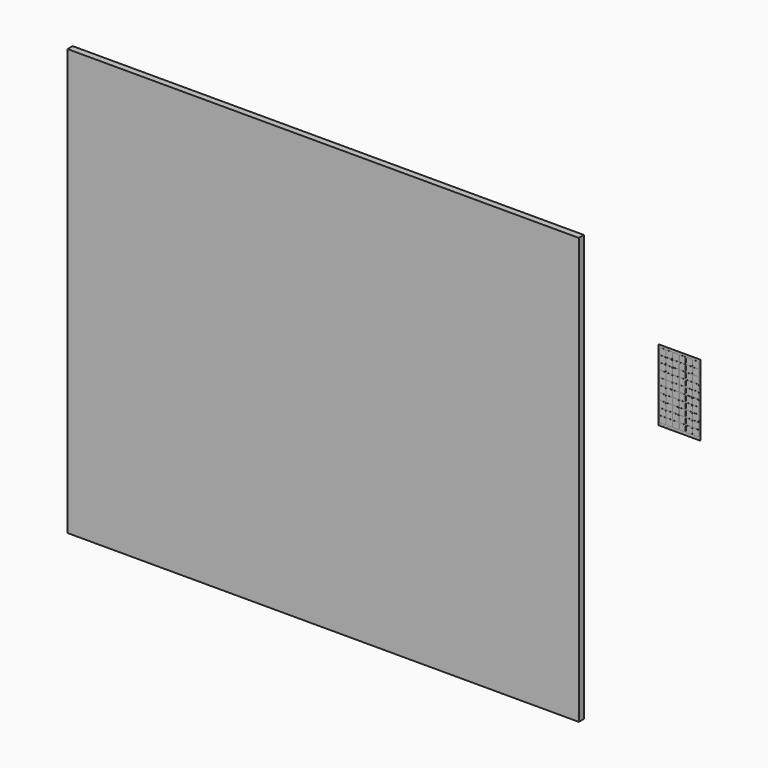
from build123d import *

# Parameters (mm, degrees)
F0_W     = 12000
F0_H     = 10000
F3_DEPTH = 150
F4_DEPTH = 2
F1_W     = 990
F1_H     = 1675
F5_DEPTH = 0.1


with BuildPart() as f3:
    # F0 (on Front) → F3 (new body)
    with BuildSketch(Plane.XZ):
        Rectangle(F0_W, F0_H)
    extrude(amount=F3_DEPTH)


with BuildPart() as f4:
    # F2 (on face) → F4 (new body)
    with BuildSketch(Plane.XZ):
        with BuildLine():
            Line((8669.1327285767, 3255.2257575989), (8579.1327285767, 3255.2257575989))
            ThreePointArc((8579.1327285767, 3255.2257575989), (8557.9195251411, 3246.4389610345), (8549.1327285767, 3225.2257575989))
            Line((8549.1327285767, 3225.2257575989), (8549.1327285767, 3135.2257575989))
            ThreePointArc((8549.1327285767, 3135.2257575989), (8557.9195251411, 3114.0125541633), (8579.1327285767, 3105.2257575989))
            Line((8579.1327285767, 3105.2257575989), (8669.1327285767, 3105.2257575989))
            ThreePointArc((8669.1327285767, 3105.2257575989), (8690.3459320123, 3114.0125541633), (8699.1327285767, 3135.2257575989))
            Line((8699.1327285767, 3135.2257575989), (8699.1327285767, 3225.2257575989))
            ThreePointArc((8699.1327285767, 3225.2257575989), (8690.3459320123, 3246.4389610345), (8669.1327285767, 3255.2257575989))
        make_face()
    extrude(amount=F4_DEPTH)



with BuildPart() as f4b:
    # F2 (on face) → F4, piece 2 (new body)
    with BuildSketch(Plane.XZ):
        with BuildLine():
            Line((8359.1327285767, 3099.2257575989), (8269.1327285767, 3099.2257575989))
            ThreePointArc((8269.1327285767, 3099.2257575989), (8247.9195251411, 3090.4389610345), (8239.1327285767, 3069.2257575989))
            Line((8239.1327285767, 3069.2257575989), (8239.1327285767, 2979.2257575989))
            ThreePointArc((8239.1327285767, 2979.2257575989), (8247.9195251411, 2958.0125541633), (8269.1327285767, 2949.2257575989))
            Line((8269.1327285767, 2949.2257575989), (8359.1327285767, 2949.2257575989))
            ThreePointArc((8359.1327285767, 2949.2257575989), (8380.3459320123, 2958.0125541633), (8389.1327285767, 2979.2257575989))
            Line((8389.1327285767, 2979.2257575989), (8389.1327285767, 3069.2257575989))
            ThreePointArc((8389.1327285767, 3069.2257575989), (8380.3459320123, 3090.4389610345), (8359.1327285767, 3099.2257575989))
        make_face()
    extrude(amount=F4_DEPTH)


with BuildPart() as f4c:
    # F2 (on face) → F4, piece 3 (new body)
    with BuildSketch(Plane.XZ):
        with BuildLine():
            Line((8514.1327285767, 3099.2257575989), (8424.1327285767, 3099.2257575989))
            ThreePointArc((8424.1327285767, 3099.2257575989), (8402.9195251411, 3090.4389610345), (8394.1327285767, 3069.2257575989))
            Line((8394.1327285767, 3069.2257575989), (8394.1327285767, 2979.2257575989))
            ThreePointArc((8394.1327285767, 2979.2257575989), (8402.9195251411, 2958.0125541633), (8424.1327285767, 2949.2257575989))
            Line((8424.1327285767, 2949.2257575989), (8514.1327285767, 2949.2257575989))
            ThreePointArc((8514.1327285767, 2949.2257575989), (8535.3459320123, 2958.0125541633), (8544.1327285767, 2979.2257575989))
            Line((8544.1327285767, 2979.2257575989), (8544.1327285767, 3069.2257575989))
            ThreePointArc((8544.1327285767, 3069.2257575989), (8535.3459320123, 3090.4389610345), (8514.1327285767, 3099.2257575989))
        make_face()
    extrude(amount=F4_DEPTH)


with BuildPart() as f4d:
    # F2 (on face) → F4, piece 4 (new body)
    with BuildSketch(Plane.XZ):
        with BuildLine():
            Line((8669.1327285767, 2943.2257575989), (8579.1327285767, 2943.2257575989))
            ThreePointArc((8579.1327285767, 2943.2257575989), (8557.9195251411, 2934.4389610345), (8549.1327285767, 2913.2257575989))
            Line((8549.1327285767, 2913.2257575989), (8549.1327285767, 2823.2257575989))
            ThreePointArc((8549.1327285767, 2823.2257575989), (8557.9195251411, 2802.0125541633), (8579.1327285767, 2793.2257575989))
            Line((8579.1327285767, 2793.2257575989), (8669.1327285767, 2793.2257575989))
            ThreePointArc((8669.1327285767, 2793.2257575989), (8690.3459320123, 2802.0125541633), (8699.1327285767, 2823.2257575989))
            Line((8699.1327285767, 2823.2257575989), (8699.1327285767, 2913.2257575989))
            ThreePointArc((8699.1327285767, 2913.2257575989), (8690.3459320123, 2934.4389610345), (8669.1327285767, 2943.2257575989))
        make_face()
    extrude(amount=F4_DEPTH)


with BuildPart() as f4e:
    # F2 (on face) → F4, piece 5 (new body)
    with BuildSketch(Plane.XZ):
        with BuildLine():
            Line((7894.1327285767, 2475.2257575989), (7804.1327285767, 2475.2257575989))
            ThreePointArc((7804.1327285767, 2475.2257575989), (7782.9195251411, 2466.4389610345), (7774.1327285767, 2445.2257575989))
            Line((7774.1327285767, 2445.2257575989), (7774.1327285767, 2355.2257575989))
            ThreePointArc((7774.1327285767, 2355.2257575989), (7782.9195251411, 2334.0125541633), (7804.1327285767, 2325.2257575989))
            Line((7804.1327285767, 2325.2257575989), (7894.1327285767, 2325.2257575989))
            ThreePointArc((7894.1327285767, 2325.2257575989), (7915.3459320123, 2334.0125541633), (7924.1327285767, 2355.2257575989))
            Line((7924.1327285767, 2355.2257575989), (7924.1327285767, 2445.2257575989))
            ThreePointArc((7924.1327285767, 2445.2257575989), (7915.3459320123, 2466.4389610345), (7894.1327285767, 2475.2257575989))
        make_face()
    extrude(amount=F4_DEPTH)


with BuildPart() as f4f:
    # F2 (on face) → F4, piece 6 (new body)
    with BuildSketch(Plane.XZ):
        with BuildLine():
            Line((7894.1327285767, 2319.2257575989), (7804.1327285767, 2319.2257575989))
            ThreePointArc((7804.1327285767, 2319.2257575989), (7782.9195251411, 2310.4389610345), (7774.1327285767, 2289.2257575989))
            Line((7774.1327285767, 2289.2257575989), (7774.1327285767, 2199.2257575989))
            ThreePointArc((7774.1327285767, 2199.2257575989), (7782.9195251411, 2178.0125541633), (7804.1327285767, 2169.2257575989))
            Line((7804.1327285767, 2169.2257575989), (7894.1327285767, 2169.2257575989))
            ThreePointArc((7894.1327285767, 2169.2257575989), (7915.3459320123, 2178.0125541633), (7924.1327285767, 2199.2257575989))
            Line((7924.1327285767, 2199.2257575989), (7924.1327285767, 2289.2257575989))
            ThreePointArc((7924.1327285767, 2289.2257575989), (7915.3459320123, 2310.4389610345), (7894.1327285767, 2319.2257575989))
        make_face()
    extrude(amount=F4_DEPTH)


with BuildPart() as f4g:
    # F2 (on face) → F4, piece 7 (new body)
    with BuildSketch(Plane.XZ):
        with BuildLine():
            Line((7894.1327285767, 2163.2257575989), (7804.1327285767, 2163.2257575989))
            ThreePointArc((7804.1327285767, 2163.2257575989), (7782.9195251411, 2154.4389610345), (7774.1327285767, 2133.2257575989))
            Line((7774.1327285767, 2133.2257575989), (7774.1327285767, 2043.2257575989))
            ThreePointArc((7774.1327285767, 2043.2257575989), (7782.9195251411, 2022.0125541633), (7804.1327285767, 2013.2257575989))
            Line((7804.1327285767, 2013.2257575989), (7894.1327285767, 2013.2257575989))
            ThreePointArc((7894.1327285767, 2013.2257575989), (7915.3459320123, 2022.0125541633), (7924.1327285767, 2043.2257575989))
            Line((7924.1327285767, 2043.2257575989), (7924.1327285767, 2133.2257575989))
            ThreePointArc((7924.1327285767, 2133.2257575989), (7915.3459320123, 2154.4389610345), (7894.1327285767, 2163.2257575989))
        make_face()
    extrude(amount=F4_DEPTH)


with BuildPart() as f4h:
    # F2 (on face) → F4, piece 8 (new body)
    with BuildSketch(Plane.XZ):
        with BuildLine():
            Line((8049.1327285767, 2163.2257575989), (7959.1327285767, 2163.2257575989))
            ThreePointArc((7959.1327285767, 2163.2257575989), (7937.9195251411, 2154.4389610345), (7929.1327285767, 2133.2257575989))
            Line((7929.1327285767, 2133.2257575989), (7929.1327285767, 2043.2257575989))
            ThreePointArc((7929.1327285767, 2043.2257575989), (7937.9195251411, 2022.0125541633), (7959.1327285767, 2013.2257575989))
            Line((7959.1327285767, 2013.2257575989), (8049.1327285767, 2013.2257575989))
            ThreePointArc((8049.1327285767, 2013.2257575989), (8070.3459320123, 2022.0125541633), (8079.1327285767, 2043.2257575989))
            Line((8079.1327285767, 2043.2257575989), (8079.1327285767, 2133.2257575989))
            ThreePointArc((8079.1327285767, 2133.2257575989), (8070.3459320123, 2154.4389610345), (8049.1327285767, 2163.2257575989))
        make_face()
    extrude(amount=F4_DEPTH)


with BuildPart() as f4i:
    # F2 (on face) → F4, piece 9 (new body)
    with BuildSketch(Plane.XZ):
        with BuildLine():
            Line((8049.1327285767, 2007.2257575989), (7959.1327285767, 2007.2257575989))
            ThreePointArc((7959.1327285767, 2007.2257575989), (7937.9195251411, 1998.4389610345), (7929.1327285767, 1977.2257575989))
            Line((7929.1327285767, 1977.2257575989), (7929.1327285767, 1887.2257575989))
            ThreePointArc((7929.1327285767, 1887.2257575989), (7937.9195251411, 1866.0125541633), (7959.1327285767, 1857.2257575989))
            Line((7959.1327285767, 1857.2257575989), (8049.1327285767, 1857.2257575989))
            ThreePointArc((8049.1327285767, 1857.2257575989), (8070.3459320123, 1866.0125541633), (8079.1327285767, 1887.2257575989))
            Line((8079.1327285767, 1887.2257575989), (8079.1327285767, 1977.2257575989))
            ThreePointArc((8079.1327285767, 1977.2257575989), (8070.3459320123, 1998.4389610345), (8049.1327285767, 2007.2257575989))
        make_face()
    extrude(amount=F4_DEPTH)


with BuildPart() as f4j:
    # F2 (on face) → F4, piece 10 (new body)
    with BuildSketch(Plane.XZ):
        with BuildLine():
            Line((7894.1327285767, 2007.2257575989), (7804.1327285767, 2007.2257575989))
            ThreePointArc((7804.1327285767, 2007.2257575989), (7782.9195251411, 1998.4389610345), (7774.1327285767, 1977.2257575989))
            Line((7774.1327285767, 1977.2257575989), (7774.1327285767, 1887.2257575989))
            ThreePointArc((7774.1327285767, 1887.2257575989), (7782.9195251411, 1866.0125541633), (7804.1327285767, 1857.2257575989))
            Line((7804.1327285767, 1857.2257575989), (7894.1327285767, 1857.2257575989))
            ThreePointArc((7894.1327285767, 1857.2257575989), (7915.3459320123, 1866.0125541633), (7924.1327285767, 1887.2257575989))
            Line((7924.1327285767, 1887.2257575989), (7924.1327285767, 1977.2257575989))
            ThreePointArc((7924.1327285767, 1977.2257575989), (7915.3459320123, 1998.4389610345), (7894.1327285767, 2007.2257575989))
        make_face()
    extrude(amount=F4_DEPTH)


with BuildPart() as f4k:
    # F2 (on face) → F4, piece 11 (new body)
    with BuildSketch(Plane.XZ):
        with BuildLine():
            Line((7894.1327285767, 1851.2257575989), (7804.1327285767, 1851.2257575989))
            ThreePointArc((7804.1327285767, 1851.2257575989), (7782.9195251411, 1842.4389610345), (7774.1327285767, 1821.2257575989))
            Line((7774.1327285767, 1821.2257575989), (7774.1327285767, 1731.2257575989))
            ThreePointArc((7774.1327285767, 1731.2257575989), (7782.9195251411, 1710.0125541633), (7804.1327285767, 1701.2257575989))
            Line((7804.1327285767, 1701.2257575989), (7894.1327285767, 1701.2257575989))
            ThreePointArc((7894.1327285767, 1701.2257575989), (7915.3459320123, 1710.0125541633), (7924.1327285767, 1731.2257575989))
            Line((7924.1327285767, 1731.2257575989), (7924.1327285767, 1821.2257575989))
            ThreePointArc((7924.1327285767, 1821.2257575989), (7915.3459320123, 1842.4389610345), (7894.1327285767, 1851.2257575989))
        make_face()
    extrude(amount=F4_DEPTH)


with BuildPart() as f4l:
    # F2 (on face) → F4, piece 12 (new body)
    with BuildSketch(Plane.XZ):
        with BuildLine():
            Line((8049.1327285767, 1851.2257575989), (7959.1327285767, 1851.2257575989))
            ThreePointArc((7959.1327285767, 1851.2257575989), (7937.9195251411, 1842.4389610345), (7929.1327285767, 1821.2257575989))
            Line((7929.1327285767, 1821.2257575989), (7929.1327285767, 1731.2257575989))
            ThreePointArc((7929.1327285767, 1731.2257575989), (7937.9195251411, 1710.0125541633), (7959.1327285767, 1701.2257575989))
            Line((7959.1327285767, 1701.2257575989), (8049.1327285767, 1701.2257575989))
            ThreePointArc((8049.1327285767, 1701.2257575989), (8070.3459320123, 1710.0125541633), (8079.1327285767, 1731.2257575989))
            Line((8079.1327285767, 1731.2257575989), (8079.1327285767, 1821.2257575989))
            ThreePointArc((8079.1327285767, 1821.2257575989), (8070.3459320123, 1842.4389610345), (8049.1327285767, 1851.2257575989))
        make_face()
    extrude(amount=F4_DEPTH)


with BuildPart() as f4m:
    # F2 (on face) → F4, piece 13 (new body)
    with BuildSketch(Plane.XZ):
        with BuildLine():
            Line((8204.1327285767, 1851.2257575989), (8114.1327285767, 1851.2257575989))
            ThreePointArc((8114.1327285767, 1851.2257575989), (8092.9195251411, 1842.4389610345), (8084.1327285767, 1821.2257575989))
            Line((8084.1327285767, 1821.2257575989), (8084.1327285767, 1731.2257575989))
            ThreePointArc((8084.1327285767, 1731.2257575989), (8092.9195251411, 1710.0125541633), (8114.1327285767, 1701.2257575989))
            Line((8114.1327285767, 1701.2257575989), (8204.1327285767, 1701.2257575989))
            ThreePointArc((8204.1327285767, 1701.2257575989), (8225.3459320123, 1710.0125541633), (8234.1327285767, 1731.2257575989))
            Line((8234.1327285767, 1731.2257575989), (8234.1327285767, 1821.2257575989))
            ThreePointArc((8234.1327285767, 1821.2257575989), (8225.3459320123, 1842.4389610345), (8204.1327285767, 1851.2257575989))
        make_face()
    extrude(amount=F4_DEPTH)


with BuildPart() as f4n:
    # F2 (on face) → F4, piece 14 (new body)
    with BuildSketch(Plane.XZ):
        with BuildLine():
            Line((8359.1327285767, 1851.2257575989), (8269.1327285767, 1851.2257575989))
            ThreePointArc((8269.1327285767, 1851.2257575989), (8247.9195251411, 1842.4389610345), (8239.1327285767, 1821.2257575989))
            Line((8239.1327285767, 1821.2257575989), (8239.1327285767, 1731.2257575989))
            ThreePointArc((8239.1327285767, 1731.2257575989), (8247.9195251411, 1710.0125541633), (8269.1327285767, 1701.2257575989))
            Line((8269.1327285767, 1701.2257575989), (8359.1327285767, 1701.2257575989))
            ThreePointArc((8359.1327285767, 1701.2257575989), (8380.3459320123, 1710.0125541633), (8389.1327285767, 1731.2257575989))
            Line((8389.1327285767, 1731.2257575989), (8389.1327285767, 1821.2257575989))
            ThreePointArc((8389.1327285767, 1821.2257575989), (8380.3459320123, 1842.4389610345), (8359.1327285767, 1851.2257575989))
        make_face()
    extrude(amount=F4_DEPTH)


with BuildPart() as f4o:
    # F2 (on face) → F4, piece 15 (new body)
    with BuildSketch(Plane.XZ):
        with BuildLine():
            Line((8514.1327285767, 1851.2257575989), (8424.1327285767, 1851.2257575989))
            ThreePointArc((8424.1327285767, 1851.2257575989), (8402.9195251411, 1842.4389610345), (8394.1327285767, 1821.2257575989))
            Line((8394.1327285767, 1821.2257575989), (8394.1327285767, 1731.2257575989))
            ThreePointArc((8394.1327285767, 1731.2257575989), (8402.9195251411, 1710.0125541633), (8424.1327285767, 1701.2257575989))
            Line((8424.1327285767, 1701.2257575989), (8514.1327285767, 1701.2257575989))
            ThreePointArc((8514.1327285767, 1701.2257575989), (8535.3459320123, 1710.0125541633), (8544.1327285767, 1731.2257575989))
            Line((8544.1327285767, 1731.2257575989), (8544.1327285767, 1821.2257575989))
            ThreePointArc((8544.1327285767, 1821.2257575989), (8535.3459320123, 1842.4389610345), (8514.1327285767, 1851.2257575989))
        make_face()
    extrude(amount=F4_DEPTH)


with BuildPart() as f4p:
    # F2 (on face) → F4, piece 16 (new body)
    with BuildSketch(Plane.XZ):
        with BuildLine():
            Line((8669.1327285767, 1851.2257575989), (8579.1327285767, 1851.2257575989))
            ThreePointArc((8579.1327285767, 1851.2257575989), (8557.9195251411, 1842.4389610345), (8549.1327285767, 1821.2257575989))
            Line((8549.1327285767, 1821.2257575989), (8549.1327285767, 1731.2257575989))
            ThreePointArc((8549.1327285767, 1731.2257575989), (8557.9195251411, 1710.0125541633), (8579.1327285767, 1701.2257575989))
            Line((8579.1327285767, 1701.2257575989), (8669.1327285767, 1701.2257575989))
            ThreePointArc((8669.1327285767, 1701.2257575989), (8690.3459320123, 1710.0125541633), (8699.1327285767, 1731.2257575989))
            Line((8699.1327285767, 1731.2257575989), (8699.1327285767, 1821.2257575989))
            ThreePointArc((8699.1327285767, 1821.2257575989), (8690.3459320123, 1842.4389610345), (8669.1327285767, 1851.2257575989))
        make_face()
    extrude(amount=F4_DEPTH)


with BuildPart() as f4q:
    # F2 (on face) → F4, piece 17 (new body)
    with BuildSketch(Plane.XZ):
        with BuildLine():
            Line((8669.1327285767, 2007.2257575989), (8579.1327285767, 2007.2257575989))
            ThreePointArc((8579.1327285767, 2007.2257575989), (8557.9195251411, 1998.4389610345), (8549.1327285767, 1977.2257575989))
            Line((8549.1327285767, 1977.2257575989), (8549.1327285767, 1887.2257575989))
            ThreePointArc((8549.1327285767, 1887.2257575989), (8557.9195251411, 1866.0125541633), (8579.1327285767, 1857.2257575989))
            Line((8579.1327285767, 1857.2257575989), (8669.1327285767, 1857.2257575989))
            ThreePointArc((8669.1327285767, 1857.2257575989), (8690.3459320123, 1866.0125541633), (8699.1327285767, 1887.2257575989))
            Line((8699.1327285767, 1887.2257575989), (8699.1327285767, 1977.2257575989))
            ThreePointArc((8699.1327285767, 1977.2257575989), (8690.3459320123, 1998.4389610345), (8669.1327285767, 2007.2257575989))
        make_face()
    extrude(amount=F4_DEPTH)


with BuildPart() as f4r:
    # F2 (on face) → F4, piece 18 (new body)
    with BuildSketch(Plane.XZ):
        with BuildLine():
            Line((8514.1327285767, 2007.2257575989), (8424.1327285767, 2007.2257575989))
            ThreePointArc((8424.1327285767, 2007.2257575989), (8402.9195251411, 1998.4389610345), (8394.1327285767, 1977.2257575989))
            Line((8394.1327285767, 1977.2257575989), (8394.1327285767, 1887.2257575989))
            ThreePointArc((8394.1327285767, 1887.2257575989), (8402.9195251411, 1866.0125541633), (8424.1327285767, 1857.2257575989))
            Line((8424.1327285767, 1857.2257575989), (8514.1327285767, 1857.2257575989))
            ThreePointArc((8514.1327285767, 1857.2257575989), (8535.3459320123, 1866.0125541633), (8544.1327285767, 1887.2257575989))
            Line((8544.1327285767, 1887.2257575989), (8544.1327285767, 1977.2257575989))
            ThreePointArc((8544.1327285767, 1977.2257575989), (8535.3459320123, 1998.4389610345), (8514.1327285767, 2007.2257575989))
        make_face()
    extrude(amount=F4_DEPTH)


with BuildPart() as f4s:
    # F2 (on face) → F4, piece 19 (new body)
    with BuildSketch(Plane.XZ):
        with BuildLine():
            Line((8359.1327285767, 2007.2257575989), (8269.1327285767, 2007.2257575989))
            ThreePointArc((8269.1327285767, 2007.2257575989), (8247.9195251411, 1998.4389610345), (8239.1327285767, 1977.2257575989))
            Line((8239.1327285767, 1977.2257575989), (8239.1327285767, 1887.2257575989))
            ThreePointArc((8239.1327285767, 1887.2257575989), (8247.9195251411, 1866.0125541633), (8269.1327285767, 1857.2257575989))
            Line((8269.1327285767, 1857.2257575989), (8359.1327285767, 1857.2257575989))
            ThreePointArc((8359.1327285767, 1857.2257575989), (8380.3459320123, 1866.0125541633), (8389.1327285767, 1887.2257575989))
            Line((8389.1327285767, 1887.2257575989), (8389.1327285767, 1977.2257575989))
            ThreePointArc((8389.1327285767, 1977.2257575989), (8380.3459320123, 1998.4389610345), (8359.1327285767, 2007.2257575989))
        make_face()
    extrude(amount=F4_DEPTH)


with BuildPart() as f4t:
    # F2 (on face) → F4, piece 20 (new body)
    with BuildSketch(Plane.XZ):
        with BuildLine():
            Line((8204.1327285767, 2007.2257575989), (8114.1327285767, 2007.2257575989))
            ThreePointArc((8114.1327285767, 2007.2257575989), (8092.9195251411, 1998.4389610345), (8084.1327285767, 1977.2257575989))
            Line((8084.1327285767, 1977.2257575989), (8084.1327285767, 1887.2257575989))
            ThreePointArc((8084.1327285767, 1887.2257575989), (8092.9195251411, 1866.0125541633), (8114.1327285767, 1857.2257575989))
            Line((8114.1327285767, 1857.2257575989), (8204.1327285767, 1857.2257575989))
            ThreePointArc((8204.1327285767, 1857.2257575989), (8225.3459320123, 1866.0125541633), (8234.1327285767, 1887.2257575989))
            Line((8234.1327285767, 1887.2257575989), (8234.1327285767, 1977.2257575989))
            ThreePointArc((8234.1327285767, 1977.2257575989), (8225.3459320123, 1998.4389610345), (8204.1327285767, 2007.2257575989))
        make_face()
    extrude(amount=F4_DEPTH)


with BuildPart() as f4u:
    # F2 (on face) → F4, piece 21 (new body)
    with BuildSketch(Plane.XZ):
        with BuildLine():
            Line((8204.1327285767, 2163.2257575989), (8114.1327285767, 2163.2257575989))
            ThreePointArc((8114.1327285767, 2163.2257575989), (8092.9195251411, 2154.4389610345), (8084.1327285767, 2133.2257575989))
            Line((8084.1327285767, 2133.2257575989), (8084.1327285767, 2043.2257575989))
            ThreePointArc((8084.1327285767, 2043.2257575989), (8092.9195251411, 2022.0125541633), (8114.1327285767, 2013.2257575989))
            Line((8114.1327285767, 2013.2257575989), (8204.1327285767, 2013.2257575989))
            ThreePointArc((8204.1327285767, 2013.2257575989), (8225.3459320123, 2022.0125541633), (8234.1327285767, 2043.2257575989))
            Line((8234.1327285767, 2043.2257575989), (8234.1327285767, 2133.2257575989))
            ThreePointArc((8234.1327285767, 2133.2257575989), (8225.3459320123, 2154.4389610345), (8204.1327285767, 2163.2257575989))
        make_face()
    extrude(amount=F4_DEPTH)


with BuildPart() as f4v:
    # F2 (on face) → F4, piece 22 (new body)
    with BuildSketch(Plane.XZ):
        with BuildLine():
            Line((8359.1327285767, 2163.2257575989), (8269.1327285767, 2163.2257575989))
            ThreePointArc((8269.1327285767, 2163.2257575989), (8247.9195251411, 2154.4389610345), (8239.1327285767, 2133.2257575989))
            Line((8239.1327285767, 2133.2257575989), (8239.1327285767, 2043.2257575989))
            ThreePointArc((8239.1327285767, 2043.2257575989), (8247.9195251411, 2022.0125541633), (8269.1327285767, 2013.2257575989))
            Line((8269.1327285767, 2013.2257575989), (8359.1327285767, 2013.2257575989))
            ThreePointArc((8359.1327285767, 2013.2257575989), (8380.3459320123, 2022.0125541633), (8389.1327285767, 2043.2257575989))
            Line((8389.1327285767, 2043.2257575989), (8389.1327285767, 2133.2257575989))
            ThreePointArc((8389.1327285767, 2133.2257575989), (8380.3459320123, 2154.4389610345), (8359.1327285767, 2163.2257575989))
        make_face()
    extrude(amount=F4_DEPTH)


with BuildPart() as f4w:
    # F2 (on face) → F4, piece 23 (new body)
    with BuildSketch(Plane.XZ):
        with BuildLine():
            Line((8514.1327285767, 2163.2257575989), (8424.1327285767, 2163.2257575989))
            ThreePointArc((8424.1327285767, 2163.2257575989), (8402.9195251411, 2154.4389610345), (8394.1327285767, 2133.2257575989))
            Line((8394.1327285767, 2133.2257575989), (8394.1327285767, 2043.2257575989))
            ThreePointArc((8394.1327285767, 2043.2257575989), (8402.9195251411, 2022.0125541633), (8424.1327285767, 2013.2257575989))
            Line((8424.1327285767, 2013.2257575989), (8514.1327285767, 2013.2257575989))
            ThreePointArc((8514.1327285767, 2013.2257575989), (8535.3459320123, 2022.0125541633), (8544.1327285767, 2043.2257575989))
            Line((8544.1327285767, 2043.2257575989), (8544.1327285767, 2133.2257575989))
            ThreePointArc((8544.1327285767, 2133.2257575989), (8535.3459320123, 2154.4389610345), (8514.1327285767, 2163.2257575989))
        make_face()
    extrude(amount=F4_DEPTH)


with BuildPart() as f4x:
    # F2 (on face) → F4, piece 24 (new body)
    with BuildSketch(Plane.XZ):
        with BuildLine():
            Line((8669.1327285767, 2163.2257575989), (8579.1327285767, 2163.2257575989))
            ThreePointArc((8579.1327285767, 2163.2257575989), (8557.9195251411, 2154.4389610345), (8549.1327285767, 2133.2257575989))
            Line((8549.1327285767, 2133.2257575989), (8549.1327285767, 2043.2257575989))
            ThreePointArc((8549.1327285767, 2043.2257575989), (8557.9195251411, 2022.0125541633), (8579.1327285767, 2013.2257575989))
            Line((8579.1327285767, 2013.2257575989), (8669.1327285767, 2013.2257575989))
            ThreePointArc((8669.1327285767, 2013.2257575989), (8690.3459320123, 2022.0125541633), (8699.1327285767, 2043.2257575989))
            Line((8699.1327285767, 2043.2257575989), (8699.1327285767, 2133.2257575989))
            ThreePointArc((8699.1327285767, 2133.2257575989), (8690.3459320123, 2154.4389610345), (8669.1327285767, 2163.2257575989))
        make_face()
    extrude(amount=F4_DEPTH)


with BuildPart() as f4y:
    # F2 (on face) → F4, piece 25 (new body)
    with BuildSketch(Plane.XZ):
        with BuildLine():
            Line((8669.1327285767, 2319.2257575989), (8579.1327285767, 2319.2257575989))
            ThreePointArc((8579.1327285767, 2319.2257575989), (8557.9195251411, 2310.4389610345), (8549.1327285767, 2289.2257575989))
            Line((8549.1327285767, 2289.2257575989), (8549.1327285767, 2199.2257575989))
            ThreePointArc((8549.1327285767, 2199.2257575989), (8557.9195251411, 2178.0125541633), (8579.1327285767, 2169.2257575989))
            Line((8579.1327285767, 2169.2257575989), (8669.1327285767, 2169.2257575989))
            ThreePointArc((8669.1327285767, 2169.2257575989), (8690.3459320123, 2178.0125541633), (8699.1327285767, 2199.2257575989))
            Line((8699.1327285767, 2199.2257575989), (8699.1327285767, 2289.2257575989))
            ThreePointArc((8699.1327285767, 2289.2257575989), (8690.3459320123, 2310.4389610345), (8669.1327285767, 2319.2257575989))
        make_face()
    extrude(amount=F4_DEPTH)


with BuildPart() as f4z:
    # F2 (on face) → F4, piece 26 (new body)
    with BuildSketch(Plane.XZ):
        with BuildLine():
            Line((8514.1327285767, 2319.2257575989), (8424.1327285767, 2319.2257575989))
            ThreePointArc((8424.1327285767, 2319.2257575989), (8402.9195251411, 2310.4389610345), (8394.1327285767, 2289.2257575989))
            Line((8394.1327285767, 2289.2257575989), (8394.1327285767, 2199.2257575989))
            ThreePointArc((8394.1327285767, 2199.2257575989), (8402.9195251411, 2178.0125541633), (8424.1327285767, 2169.2257575989))
            Line((8424.1327285767, 2169.2257575989), (8514.1327285767, 2169.2257575989))
            ThreePointArc((8514.1327285767, 2169.2257575989), (8535.3459320123, 2178.0125541633), (8544.1327285767, 2199.2257575989))
            Line((8544.1327285767, 2199.2257575989), (8544.1327285767, 2289.2257575989))
            ThreePointArc((8544.1327285767, 2289.2257575989), (8535.3459320123, 2310.4389610345), (8514.1327285767, 2319.2257575989))
        make_face()
    extrude(amount=F4_DEPTH)


with BuildPart() as f4ba:
    # F2 (on face) → F4, piece 27 (new body)
    with BuildSketch(Plane.XZ):
        with BuildLine():
            Line((8359.1327285767, 2319.2257575989), (8269.1327285767, 2319.2257575989))
            ThreePointArc((8269.1327285767, 2319.2257575989), (8247.9195251411, 2310.4389610345), (8239.1327285767, 2289.2257575989))
            Line((8239.1327285767, 2289.2257575989), (8239.1327285767, 2199.2257575989))
            ThreePointArc((8239.1327285767, 2199.2257575989), (8247.9195251411, 2178.0125541633), (8269.1327285767, 2169.2257575989))
            Line((8269.1327285767, 2169.2257575989), (8359.1327285767, 2169.2257575989))
            ThreePointArc((8359.1327285767, 2169.2257575989), (8380.3459320123, 2178.0125541633), (8389.1327285767, 2199.2257575989))
            Line((8389.1327285767, 2199.2257575989), (8389.1327285767, 2289.2257575989))
            ThreePointArc((8389.1327285767, 2289.2257575989), (8380.3459320123, 2310.4389610345), (8359.1327285767, 2319.2257575989))
        make_face()
    extrude(amount=F4_DEPTH)


with BuildPart() as f4bb:
    # F2 (on face) → F4, piece 28 (new body)
    with BuildSketch(Plane.XZ):
        with BuildLine():
            Line((8204.1327285767, 2319.2257575989), (8114.1327285767, 2319.2257575989))
            ThreePointArc((8114.1327285767, 2319.2257575989), (8092.9195251411, 2310.4389610345), (8084.1327285767, 2289.2257575989))
            Line((8084.1327285767, 2289.2257575989), (8084.1327285767, 2199.2257575989))
            ThreePointArc((8084.1327285767, 2199.2257575989), (8092.9195251411, 2178.0125541633), (8114.1327285767, 2169.2257575989))
            Line((8114.1327285767, 2169.2257575989), (8204.1327285767, 2169.2257575989))
            ThreePointArc((8204.1327285767, 2169.2257575989), (8225.3459320123, 2178.0125541633), (8234.1327285767, 2199.2257575989))
            Line((8234.1327285767, 2199.2257575989), (8234.1327285767, 2289.2257575989))
            ThreePointArc((8234.1327285767, 2289.2257575989), (8225.3459320123, 2310.4389610345), (8204.1327285767, 2319.2257575989))
        make_face()
    extrude(amount=F4_DEPTH)


with BuildPart() as f4bc:
    # F2 (on face) → F4, piece 29 (new body)
    with BuildSketch(Plane.XZ):
        with BuildLine():
            Line((8049.1327285767, 2319.2257575989), (7959.1327285767, 2319.2257575989))
            ThreePointArc((7959.1327285767, 2319.2257575989), (7937.9195251411, 2310.4389610345), (7929.1327285767, 2289.2257575989))
            Line((7929.1327285767, 2289.2257575989), (7929.1327285767, 2199.2257575989))
            ThreePointArc((7929.1327285767, 2199.2257575989), (7937.9195251411, 2178.0125541633), (7959.1327285767, 2169.2257575989))
            Line((7959.1327285767, 2169.2257575989), (8049.1327285767, 2169.2257575989))
            ThreePointArc((8049.1327285767, 2169.2257575989), (8070.3459320123, 2178.0125541633), (8079.1327285767, 2199.2257575989))
            Line((8079.1327285767, 2199.2257575989), (8079.1327285767, 2289.2257575989))
            ThreePointArc((8079.1327285767, 2289.2257575989), (8070.3459320123, 2310.4389610345), (8049.1327285767, 2319.2257575989))
        make_face()
    extrude(amount=F4_DEPTH)


with BuildPart() as f4bd:
    # F2 (on face) → F4, piece 30 (new body)
    with BuildSketch(Plane.XZ):
        with BuildLine():
            Line((8049.1327285767, 2475.2257575989), (7959.1327285767, 2475.2257575989))
            ThreePointArc((7959.1327285767, 2475.2257575989), (7937.9195251411, 2466.4389610345), (7929.1327285767, 2445.2257575989))
            Line((7929.1327285767, 2445.2257575989), (7929.1327285767, 2355.2257575989))
            ThreePointArc((7929.1327285767, 2355.2257575989), (7937.9195251411, 2334.0125541633), (7959.1327285767, 2325.2257575989))
            Line((7959.1327285767, 2325.2257575989), (8049.1327285767, 2325.2257575989))
            ThreePointArc((8049.1327285767, 2325.2257575989), (8070.3459320123, 2334.0125541633), (8079.1327285767, 2355.2257575989))
            Line((8079.1327285767, 2355.2257575989), (8079.1327285767, 2445.2257575989))
            ThreePointArc((8079.1327285767, 2445.2257575989), (8070.3459320123, 2466.4389610345), (8049.1327285767, 2475.2257575989))
        make_face()
    extrude(amount=F4_DEPTH)


with BuildPart() as f4be:
    # F2 (on face) → F4, piece 31 (new body)
    with BuildSketch(Plane.XZ):
        with BuildLine():
            Line((8204.1327285767, 2475.2257575989), (8114.1327285767, 2475.2257575989))
            ThreePointArc((8114.1327285767, 2475.2257575989), (8092.9195251411, 2466.4389610345), (8084.1327285767, 2445.2257575989))
            Line((8084.1327285767, 2445.2257575989), (8084.1327285767, 2355.2257575989))
            ThreePointArc((8084.1327285767, 2355.2257575989), (8092.9195251411, 2334.0125541633), (8114.1327285767, 2325.2257575989))
            Line((8114.1327285767, 2325.2257575989), (8204.1327285767, 2325.2257575989))
            ThreePointArc((8204.1327285767, 2325.2257575989), (8225.3459320123, 2334.0125541633), (8234.1327285767, 2355.2257575989))
            Line((8234.1327285767, 2355.2257575989), (8234.1327285767, 2445.2257575989))
            ThreePointArc((8234.1327285767, 2445.2257575989), (8225.3459320123, 2466.4389610345), (8204.1327285767, 2475.2257575989))
        make_face()
    extrude(amount=F4_DEPTH)


with BuildPart() as f4bf:
    # F2 (on face) → F4, piece 32 (new body)
    with BuildSketch(Plane.XZ):
        with BuildLine():
            Line((8359.1327285767, 2475.2257575989), (8269.1327285767, 2475.2257575989))
            ThreePointArc((8269.1327285767, 2475.2257575989), (8247.9195251411, 2466.4389610345), (8239.1327285767, 2445.2257575989))
            Line((8239.1327285767, 2445.2257575989), (8239.1327285767, 2355.2257575989))
            ThreePointArc((8239.1327285767, 2355.2257575989), (8247.9195251411, 2334.0125541633), (8269.1327285767, 2325.2257575989))
            Line((8269.1327285767, 2325.2257575989), (8359.1327285767, 2325.2257575989))
            ThreePointArc((8359.1327285767, 2325.2257575989), (8380.3459320123, 2334.0125541633), (8389.1327285767, 2355.2257575989))
            Line((8389.1327285767, 2355.2257575989), (8389.1327285767, 2445.2257575989))
            ThreePointArc((8389.1327285767, 2445.2257575989), (8380.3459320123, 2466.4389610345), (8359.1327285767, 2475.2257575989))
        make_face()
    extrude(amount=F4_DEPTH)


with BuildPart() as f4bg:
    # F2 (on face) → F4, piece 33 (new body)
    with BuildSketch(Plane.XZ):
        with BuildLine():
            Line((8514.1327285767, 2475.2257575989), (8424.1327285767, 2475.2257575989))
            ThreePointArc((8424.1327285767, 2475.2257575989), (8402.9195251411, 2466.4389610345), (8394.1327285767, 2445.2257575989))
            Line((8394.1327285767, 2445.2257575989), (8394.1327285767, 2355.2257575989))
            ThreePointArc((8394.1327285767, 2355.2257575989), (8402.9195251411, 2334.0125541633), (8424.1327285767, 2325.2257575989))
            Line((8424.1327285767, 2325.2257575989), (8514.1327285767, 2325.2257575989))
            ThreePointArc((8514.1327285767, 2325.2257575989), (8535.3459320123, 2334.0125541633), (8544.1327285767, 2355.2257575989))
            Line((8544.1327285767, 2355.2257575989), (8544.1327285767, 2445.2257575989))
            ThreePointArc((8544.1327285767, 2445.2257575989), (8535.3459320123, 2466.4389610345), (8514.1327285767, 2475.2257575989))
        make_face()
    extrude(amount=F4_DEPTH)


with BuildPart() as f4bh:
    # F2 (on face) → F4, piece 34 (new body)
    with BuildSketch(Plane.XZ):
        with BuildLine():
            Line((8669.1327285767, 2475.2257575989), (8579.1327285767, 2475.2257575989))
            ThreePointArc((8579.1327285767, 2475.2257575989), (8557.9195251411, 2466.4389610345), (8549.1327285767, 2445.2257575989))
            Line((8549.1327285767, 2445.2257575989), (8549.1327285767, 2355.2257575989))
            ThreePointArc((8549.1327285767, 2355.2257575989), (8557.9195251411, 2334.0125541633), (8579.1327285767, 2325.2257575989))
            Line((8579.1327285767, 2325.2257575989), (8669.1327285767, 2325.2257575989))
            ThreePointArc((8669.1327285767, 2325.2257575989), (8690.3459320123, 2334.0125541633), (8699.1327285767, 2355.2257575989))
            Line((8699.1327285767, 2355.2257575989), (8699.1327285767, 2445.2257575989))
            ThreePointArc((8699.1327285767, 2445.2257575989), (8690.3459320123, 2466.4389610345), (8669.1327285767, 2475.2257575989))
        make_face()
    extrude(amount=F4_DEPTH)


with BuildPart() as f4bi:
    # F2 (on face) → F4, piece 35 (new body)
    with BuildSketch(Plane.XZ):
        with BuildLine():
            Line((8669.1327285767, 2631.2257575989), (8579.1327285767, 2631.2257575989))
            ThreePointArc((8579.1327285767, 2631.2257575989), (8557.9195251411, 2622.4389610345), (8549.1327285767, 2601.2257575989))
            Line((8549.1327285767, 2601.2257575989), (8549.1327285767, 2511.2257575989))
            ThreePointArc((8549.1327285767, 2511.2257575989), (8557.9195251411, 2490.0125541633), (8579.1327285767, 2481.2257575989))
            Line((8579.1327285767, 2481.2257575989), (8669.1327285767, 2481.2257575989))
            ThreePointArc((8669.1327285767, 2481.2257575989), (8690.3459320123, 2490.0125541633), (8699.1327285767, 2511.2257575989))
            Line((8699.1327285767, 2511.2257575989), (8699.1327285767, 2601.2257575989))
            ThreePointArc((8699.1327285767, 2601.2257575989), (8690.3459320123, 2622.4389610345), (8669.1327285767, 2631.2257575989))
        make_face()
    extrude(amount=F4_DEPTH)


with BuildPart() as f4bj:
    # F2 (on face) → F4, piece 36 (new body)
    with BuildSketch(Plane.XZ):
        with BuildLine():
            Line((8514.1327285767, 2631.2257575989), (8424.1327285767, 2631.2257575989))
            ThreePointArc((8424.1327285767, 2631.2257575989), (8402.9195251411, 2622.4389610345), (8394.1327285767, 2601.2257575989))
            Line((8394.1327285767, 2601.2257575989), (8394.1327285767, 2511.2257575989))
            ThreePointArc((8394.1327285767, 2511.2257575989), (8402.9195251411, 2490.0125541633), (8424.1327285767, 2481.2257575989))
            Line((8424.1327285767, 2481.2257575989), (8514.1327285767, 2481.2257575989))
            ThreePointArc((8514.1327285767, 2481.2257575989), (8535.3459320123, 2490.0125541633), (8544.1327285767, 2511.2257575989))
            Line((8544.1327285767, 2511.2257575989), (8544.1327285767, 2601.2257575989))
            ThreePointArc((8544.1327285767, 2601.2257575989), (8535.3459320123, 2622.4389610345), (8514.1327285767, 2631.2257575989))
        make_face()
    extrude(amount=F4_DEPTH)


with BuildPart() as f4bk:
    # F2 (on face) → F4, piece 37 (new body)
    with BuildSketch(Plane.XZ):
        with BuildLine():
            Line((8359.1327285767, 2631.2257575989), (8269.1327285767, 2631.2257575989))
            ThreePointArc((8269.1327285767, 2631.2257575989), (8247.9195251411, 2622.4389610345), (8239.1327285767, 2601.2257575989))
            Line((8239.1327285767, 2601.2257575989), (8239.1327285767, 2511.2257575989))
            ThreePointArc((8239.1327285767, 2511.2257575989), (8247.9195251411, 2490.0125541633), (8269.1327285767, 2481.2257575989))
            Line((8269.1327285767, 2481.2257575989), (8359.1327285767, 2481.2257575989))
            ThreePointArc((8359.1327285767, 2481.2257575989), (8380.3459320123, 2490.0125541633), (8389.1327285767, 2511.2257575989))
            Line((8389.1327285767, 2511.2257575989), (8389.1327285767, 2601.2257575989))
            ThreePointArc((8389.1327285767, 2601.2257575989), (8380.3459320123, 2622.4389610345), (8359.1327285767, 2631.2257575989))
        make_face()
    extrude(amount=F4_DEPTH)


with BuildPart() as f4bl:
    # F2 (on face) → F4, piece 38 (new body)
    with BuildSketch(Plane.XZ):
        with BuildLine():
            Line((8204.1327285767, 2631.2257575989), (8114.1327285767, 2631.2257575989))
            ThreePointArc((8114.1327285767, 2631.2257575989), (8092.9195251411, 2622.4389610345), (8084.1327285767, 2601.2257575989))
            Line((8084.1327285767, 2601.2257575989), (8084.1327285767, 2511.2257575989))
            ThreePointArc((8084.1327285767, 2511.2257575989), (8092.9195251411, 2490.0125541633), (8114.1327285767, 2481.2257575989))
            Line((8114.1327285767, 2481.2257575989), (8204.1327285767, 2481.2257575989))
            ThreePointArc((8204.1327285767, 2481.2257575989), (8225.3459320123, 2490.0125541633), (8234.1327285767, 2511.2257575989))
            Line((8234.1327285767, 2511.2257575989), (8234.1327285767, 2601.2257575989))
            ThreePointArc((8234.1327285767, 2601.2257575989), (8225.3459320123, 2622.4389610345), (8204.1327285767, 2631.2257575989))
        make_face()
    extrude(amount=F4_DEPTH)


with BuildPart() as f4bm:
    # F2 (on face) → F4, piece 39 (new body)
    with BuildSketch(Plane.XZ):
        with BuildLine():
            Line((8049.1327285767, 2631.2257575989), (7959.1327285767, 2631.2257575989))
            ThreePointArc((7959.1327285767, 2631.2257575989), (7937.9195251411, 2622.4389610345), (7929.1327285767, 2601.2257575989))
            Line((7929.1327285767, 2601.2257575989), (7929.1327285767, 2511.2257575989))
            ThreePointArc((7929.1327285767, 2511.2257575989), (7937.9195251411, 2490.0125541633), (7959.1327285767, 2481.2257575989))
            Line((7959.1327285767, 2481.2257575989), (8049.1327285767, 2481.2257575989))
            ThreePointArc((8049.1327285767, 2481.2257575989), (8070.3459320123, 2490.0125541633), (8079.1327285767, 2511.2257575989))
            Line((8079.1327285767, 2511.2257575989), (8079.1327285767, 2601.2257575989))
            ThreePointArc((8079.1327285767, 2601.2257575989), (8070.3459320123, 2622.4389610345), (8049.1327285767, 2631.2257575989))
        make_face()
    extrude(amount=F4_DEPTH)


with BuildPart() as f4bn:
    # F2 (on face) → F4, piece 40 (new body)
    with BuildSketch(Plane.XZ):
        with BuildLine():
            Line((7894.1327285767, 2631.2257575989), (7804.1327285767, 2631.2257575989))
            ThreePointArc((7804.1327285767, 2631.2257575989), (7782.9195251411, 2622.4389610345), (7774.1327285767, 2601.2257575989))
            Line((7774.1327285767, 2601.2257575989), (7774.1327285767, 2511.2257575989))
            ThreePointArc((7774.1327285767, 2511.2257575989), (7782.9195251411, 2490.0125541633), (7804.1327285767, 2481.2257575989))
            Line((7804.1327285767, 2481.2257575989), (7894.1327285767, 2481.2257575989))
            ThreePointArc((7894.1327285767, 2481.2257575989), (7915.3459320123, 2490.0125541633), (7924.1327285767, 2511.2257575989))
            Line((7924.1327285767, 2511.2257575989), (7924.1327285767, 2601.2257575989))
            ThreePointArc((7924.1327285767, 2601.2257575989), (7915.3459320123, 2622.4389610345), (7894.1327285767, 2631.2257575989))
        make_face()
    extrude(amount=F4_DEPTH)


with BuildPart() as f4bo:
    # F2 (on face) → F4, piece 41 (new body)
    with BuildSketch(Plane.XZ):
        with BuildLine():
            Line((7894.1327285767, 2787.2257575989), (7804.1327285767, 2787.2257575989))
            ThreePointArc((7804.1327285767, 2787.2257575989), (7782.9195251411, 2778.4389610345), (7774.1327285767, 2757.2257575989))
            Line((7774.1327285767, 2757.2257575989), (7774.1327285767, 2667.2257575989))
            ThreePointArc((7774.1327285767, 2667.2257575989), (7782.9195251411, 2646.0125541633), (7804.1327285767, 2637.2257575989))
            Line((7804.1327285767, 2637.2257575989), (7894.1327285767, 2637.2257575989))
            ThreePointArc((7894.1327285767, 2637.2257575989), (7915.3459320123, 2646.0125541633), (7924.1327285767, 2667.2257575989))
            Line((7924.1327285767, 2667.2257575989), (7924.1327285767, 2757.2257575989))
            ThreePointArc((7924.1327285767, 2757.2257575989), (7915.3459320123, 2778.4389610345), (7894.1327285767, 2787.2257575989))
        make_face()
    extrude(amount=F4_DEPTH)


with BuildPart() as f4bp:
    # F2 (on face) → F4, piece 42 (new body)
    with BuildSketch(Plane.XZ):
        with BuildLine():
            Line((8204.1327285767, 2787.2257575989), (8114.1327285767, 2787.2257575989))
            ThreePointArc((8114.1327285767, 2787.2257575989), (8092.9195251411, 2778.4389610345), (8084.1327285767, 2757.2257575989))
            Line((8084.1327285767, 2757.2257575989), (8084.1327285767, 2667.2257575989))
            ThreePointArc((8084.1327285767, 2667.2257575989), (8092.9195251411, 2646.0125541633), (8114.1327285767, 2637.2257575989))
            Line((8114.1327285767, 2637.2257575989), (8204.1327285767, 2637.2257575989))
            ThreePointArc((8204.1327285767, 2637.2257575989), (8225.3459320123, 2646.0125541633), (8234.1327285767, 2667.2257575989))
            Line((8234.1327285767, 2667.2257575989), (8234.1327285767, 2757.2257575989))
            ThreePointArc((8234.1327285767, 2757.2257575989), (8225.3459320123, 2778.4389610345), (8204.1327285767, 2787.2257575989))
        make_face()
    extrude(amount=F4_DEPTH)


with BuildPart() as f4bq:
    # F2 (on face) → F4, piece 43 (new body)
    with BuildSketch(Plane.XZ):
        with BuildLine():
            Line((8669.1327285767, 2787.2257575989), (8579.1327285767, 2787.2257575989))
            ThreePointArc((8579.1327285767, 2787.2257575989), (8557.9195251411, 2778.4389610345), (8549.1327285767, 2757.2257575989))
            Line((8549.1327285767, 2757.2257575989), (8549.1327285767, 2667.2257575989))
            ThreePointArc((8549.1327285767, 2667.2257575989), (8557.9195251411, 2646.0125541633), (8579.1327285767, 2637.2257575989))
            Line((8579.1327285767, 2637.2257575989), (8669.1327285767, 2637.2257575989))
            ThreePointArc((8669.1327285767, 2637.2257575989), (8690.3459320123, 2646.0125541633), (8699.1327285767, 2667.2257575989))
            Line((8699.1327285767, 2667.2257575989), (8699.1327285767, 2757.2257575989))
            ThreePointArc((8699.1327285767, 2757.2257575989), (8690.3459320123, 2778.4389610345), (8669.1327285767, 2787.2257575989))
        make_face()
    extrude(amount=F4_DEPTH)


with BuildPart() as f4br:
    # F2 (on face) → F4, piece 44 (new body)
    with BuildSketch(Plane.XZ):
        with BuildLine():
            Line((7894.1327285767, 3099.2257575989), (7804.1327285767, 3099.2257575989))
            ThreePointArc((7804.1327285767, 3099.2257575989), (7782.9195251411, 3090.4389610345), (7774.1327285767, 3069.2257575989))
            Line((7774.1327285767, 3069.2257575989), (7774.1327285767, 2979.2257575989))
            ThreePointArc((7774.1327285767, 2979.2257575989), (7782.9195251411, 2958.0125541633), (7804.1327285767, 2949.2257575989))
            Line((7804.1327285767, 2949.2257575989), (7894.1327285767, 2949.2257575989))
            ThreePointArc((7894.1327285767, 2949.2257575989), (7915.3459320123, 2958.0125541633), (7924.1327285767, 2979.2257575989))
            Line((7924.1327285767, 2979.2257575989), (7924.1327285767, 3069.2257575989))
            ThreePointArc((7924.1327285767, 3069.2257575989), (7915.3459320123, 3090.4389610345), (7894.1327285767, 3099.2257575989))
        make_face()
    extrude(amount=F4_DEPTH)


with BuildPart() as f4bs:
    # F2 (on face) → F4, piece 45 (new body)
    with BuildSketch(Plane.XZ):
        with BuildLine():
            Line((8514.1327285767, 2943.2257575989), (8424.1327285767, 2943.2257575989))
            ThreePointArc((8424.1327285767, 2943.2257575989), (8402.9195251411, 2934.4389610345), (8394.1327285767, 2913.2257575989))
            Line((8394.1327285767, 2913.2257575989), (8394.1327285767, 2823.2257575989))
            ThreePointArc((8394.1327285767, 2823.2257575989), (8402.9195251411, 2802.0125541633), (8424.1327285767, 2793.2257575989))
            Line((8424.1327285767, 2793.2257575989), (8514.1327285767, 2793.2257575989))
            ThreePointArc((8514.1327285767, 2793.2257575989), (8535.3459320123, 2802.0125541633), (8544.1327285767, 2823.2257575989))
            Line((8544.1327285767, 2823.2257575989), (8544.1327285767, 2913.2257575989))
            ThreePointArc((8544.1327285767, 2913.2257575989), (8535.3459320123, 2934.4389610345), (8514.1327285767, 2943.2257575989))
        make_face()
    extrude(amount=F4_DEPTH)


with BuildPart() as f4bt:
    # F2 (on face) → F4, piece 46 (new body)
    with BuildSketch(Plane.XZ):
        with BuildLine():
            Line((8359.1327285767, 2943.2257575989), (8269.1327285767, 2943.2257575989))
            ThreePointArc((8269.1327285767, 2943.2257575989), (8247.9195251411, 2934.4389610345), (8239.1327285767, 2913.2257575989))
            Line((8239.1327285767, 2913.2257575989), (8239.1327285767, 2823.2257575989))
            ThreePointArc((8239.1327285767, 2823.2257575989), (8247.9195251411, 2802.0125541633), (8269.1327285767, 2793.2257575989))
            Line((8269.1327285767, 2793.2257575989), (8359.1327285767, 2793.2257575989))
            ThreePointArc((8359.1327285767, 2793.2257575989), (8380.3459320123, 2802.0125541633), (8389.1327285767, 2823.2257575989))
            Line((8389.1327285767, 2823.2257575989), (8389.1327285767, 2913.2257575989))
            ThreePointArc((8389.1327285767, 2913.2257575989), (8380.3459320123, 2934.4389610345), (8359.1327285767, 2943.2257575989))
        make_face()
    extrude(amount=F4_DEPTH)


with BuildPart() as f4bu:
    # F2 (on face) → F4, piece 47 (new body)
    with BuildSketch(Plane.XZ):
        with BuildLine():
            Line((8204.1327285767, 2943.2257575989), (8114.1327285767, 2943.2257575989))
            ThreePointArc((8114.1327285767, 2943.2257575989), (8092.9195251411, 2934.4389610345), (8084.1327285767, 2913.2257575989))
            Line((8084.1327285767, 2913.2257575989), (8084.1327285767, 2823.2257575989))
            ThreePointArc((8084.1327285767, 2823.2257575989), (8092.9195251411, 2802.0125541633), (8114.1327285767, 2793.2257575989))
            Line((8114.1327285767, 2793.2257575989), (8204.1327285767, 2793.2257575989))
            ThreePointArc((8204.1327285767, 2793.2257575989), (8225.3459320123, 2802.0125541633), (8234.1327285767, 2823.2257575989))
            Line((8234.1327285767, 2823.2257575989), (8234.1327285767, 2913.2257575989))
            ThreePointArc((8234.1327285767, 2913.2257575989), (8225.3459320123, 2934.4389610345), (8204.1327285767, 2943.2257575989))
        make_face()
    extrude(amount=F4_DEPTH)


with BuildPart() as f4bv:
    # F2 (on face) → F4, piece 48 (new body)
    with BuildSketch(Plane.XZ):
        with BuildLine():
            Line((8049.1327285767, 2943.2257575989), (7959.1327285767, 2943.2257575989))
            ThreePointArc((7959.1327285767, 2943.2257575989), (7937.9195251411, 2934.4389610345), (7929.1327285767, 2913.2257575989))
            Line((7929.1327285767, 2913.2257575989), (7929.1327285767, 2823.2257575989))
            ThreePointArc((7929.1327285767, 2823.2257575989), (7937.9195251411, 2802.0125541633), (7959.1327285767, 2793.2257575989))
            Line((7959.1327285767, 2793.2257575989), (8049.1327285767, 2793.2257575989))
            ThreePointArc((8049.1327285767, 2793.2257575989), (8070.3459320123, 2802.0125541633), (8079.1327285767, 2823.2257575989))
            Line((8079.1327285767, 2823.2257575989), (8079.1327285767, 2913.2257575989))
            ThreePointArc((8079.1327285767, 2913.2257575989), (8070.3459320123, 2934.4389610345), (8049.1327285767, 2943.2257575989))
        make_face()
    extrude(amount=F4_DEPTH)


with BuildPart() as f4bw:
    # F2 (on face) → F4, piece 49 (new body)
    with BuildSketch(Plane.XZ):
        with BuildLine():
            Line((8049.1327285767, 2787.2257575989), (7959.1327285767, 2787.2257575989))
            ThreePointArc((7959.1327285767, 2787.2257575989), (7937.9195251411, 2778.4389610345), (7929.1327285767, 2757.2257575989))
            Line((7929.1327285767, 2757.2257575989), (7929.1327285767, 2667.2257575989))
            ThreePointArc((7929.1327285767, 2667.2257575989), (7937.9195251411, 2646.0125541633), (7959.1327285767, 2637.2257575989))
            Line((7959.1327285767, 2637.2257575989), (8049.1327285767, 2637.2257575989))
            ThreePointArc((8049.1327285767, 2637.2257575989), (8070.3459320123, 2646.0125541633), (8079.1327285767, 2667.2257575989))
            Line((8079.1327285767, 2667.2257575989), (8079.1327285767, 2757.2257575989))
            ThreePointArc((8079.1327285767, 2757.2257575989), (8070.3459320123, 2778.4389610345), (8049.1327285767, 2787.2257575989))
        make_face()
    extrude(amount=F4_DEPTH)


with BuildPart() as f4bx:
    # F2 (on face) → F4, piece 50 (new body)
    with BuildSketch(Plane.XZ):
        with BuildLine():
            Line((8359.1327285767, 2787.2257575989), (8269.1327285767, 2787.2257575989))
            ThreePointArc((8269.1327285767, 2787.2257575989), (8247.9195251411, 2778.4389610345), (8239.1327285767, 2757.2257575989))
            Line((8239.1327285767, 2757.2257575989), (8239.1327285767, 2667.2257575989))
            ThreePointArc((8239.1327285767, 2667.2257575989), (8247.9195251411, 2646.0125541633), (8269.1327285767, 2637.2257575989))
            Line((8269.1327285767, 2637.2257575989), (8359.1327285767, 2637.2257575989))
            ThreePointArc((8359.1327285767, 2637.2257575989), (8380.3459320123, 2646.0125541633), (8389.1327285767, 2667.2257575989))
            Line((8389.1327285767, 2667.2257575989), (8389.1327285767, 2757.2257575989))
            ThreePointArc((8389.1327285767, 2757.2257575989), (8380.3459320123, 2778.4389610345), (8359.1327285767, 2787.2257575989))
        make_face()
    extrude(amount=F4_DEPTH)


with BuildPart() as f4by:
    # F2 (on face) → F4, piece 51 (new body)
    with BuildSketch(Plane.XZ):
        with BuildLine():
            Line((8514.1327285767, 2787.2257575989), (8424.1327285767, 2787.2257575989))
            ThreePointArc((8424.1327285767, 2787.2257575989), (8402.9195251411, 2778.4389610345), (8394.1327285767, 2757.2257575989))
            Line((8394.1327285767, 2757.2257575989), (8394.1327285767, 2667.2257575989))
            ThreePointArc((8394.1327285767, 2667.2257575989), (8402.9195251411, 2646.0125541633), (8424.1327285767, 2637.2257575989))
            Line((8424.1327285767, 2637.2257575989), (8514.1327285767, 2637.2257575989))
            ThreePointArc((8514.1327285767, 2637.2257575989), (8535.3459320123, 2646.0125541633), (8544.1327285767, 2667.2257575989))
            Line((8544.1327285767, 2667.2257575989), (8544.1327285767, 2757.2257575989))
            ThreePointArc((8544.1327285767, 2757.2257575989), (8535.3459320123, 2778.4389610345), (8514.1327285767, 2787.2257575989))
        make_face()
    extrude(amount=F4_DEPTH)


with BuildPart() as f4bz:
    # F2 (on face) → F4, piece 52 (new body)
    with BuildSketch(Plane.XZ):
        with BuildLine():
            Line((7894.1327285767, 2943.2257575989), (7804.1327285767, 2943.2257575989))
            ThreePointArc((7804.1327285767, 2943.2257575989), (7782.9195251411, 2934.4389610345), (7774.1327285767, 2913.2257575989))
            Line((7774.1327285767, 2913.2257575989), (7774.1327285767, 2823.2257575989))
            ThreePointArc((7774.1327285767, 2823.2257575989), (7782.9195251411, 2802.0125541633), (7804.1327285767, 2793.2257575989))
            Line((7804.1327285767, 2793.2257575989), (7894.1327285767, 2793.2257575989))
            ThreePointArc((7894.1327285767, 2793.2257575989), (7915.3459320123, 2802.0125541633), (7924.1327285767, 2823.2257575989))
            Line((7924.1327285767, 2823.2257575989), (7924.1327285767, 2913.2257575989))
            ThreePointArc((7924.1327285767, 2913.2257575989), (7915.3459320123, 2934.4389610345), (7894.1327285767, 2943.2257575989))
        make_face()
    extrude(amount=F4_DEPTH)


with BuildPart() as f4ca:
    # F2 (on face) → F4, piece 53 (new body)
    with BuildSketch(Plane.XZ):
        with BuildLine():
            Line((8049.1327285767, 3099.2257575989), (7959.1327285767, 3099.2257575989))
            ThreePointArc((7959.1327285767, 3099.2257575989), (7937.9195251411, 3090.4389610345), (7929.1327285767, 3069.2257575989))
            Line((7929.1327285767, 3069.2257575989), (7929.1327285767, 2979.2257575989))
            ThreePointArc((7929.1327285767, 2979.2257575989), (7937.9195251411, 2958.0125541633), (7959.1327285767, 2949.2257575989))
            Line((7959.1327285767, 2949.2257575989), (8049.1327285767, 2949.2257575989))
            ThreePointArc((8049.1327285767, 2949.2257575989), (8070.3459320123, 2958.0125541633), (8079.1327285767, 2979.2257575989))
            Line((8079.1327285767, 2979.2257575989), (8079.1327285767, 3069.2257575989))
            ThreePointArc((8079.1327285767, 3069.2257575989), (8070.3459320123, 3090.4389610345), (8049.1327285767, 3099.2257575989))
        make_face()
    extrude(amount=F4_DEPTH)


with BuildPart() as f4cb:
    # F2 (on face) → F4, piece 54 (new body)
    with BuildSketch(Plane.XZ):
        with BuildLine():
            Line((8204.1327285767, 3099.2257575989), (8114.1327285767, 3099.2257575989))
            ThreePointArc((8114.1327285767, 3099.2257575989), (8092.9195251411, 3090.4389610345), (8084.1327285767, 3069.2257575989))
            Line((8084.1327285767, 3069.2257575989), (8084.1327285767, 2979.2257575989))
            ThreePointArc((8084.1327285767, 2979.2257575989), (8092.9195251411, 2958.0125541633), (8114.1327285767, 2949.2257575989))
            Line((8114.1327285767, 2949.2257575989), (8204.1327285767, 2949.2257575989))
            ThreePointArc((8204.1327285767, 2949.2257575989), (8225.3459320123, 2958.0125541633), (8234.1327285767, 2979.2257575989))
            Line((8234.1327285767, 2979.2257575989), (8234.1327285767, 3069.2257575989))
            ThreePointArc((8234.1327285767, 3069.2257575989), (8225.3459320123, 3090.4389610345), (8204.1327285767, 3099.2257575989))
        make_face()
    extrude(amount=F4_DEPTH)


with BuildPart() as f4cc:
    # F2 (on face) → F4, piece 55 (new body)
    with BuildSketch(Plane.XZ):
        with BuildLine():
            Line((8669.1327285767, 3099.2257575989), (8579.1327285767, 3099.2257575989))
            ThreePointArc((8579.1327285767, 3099.2257575989), (8557.9195251411, 3090.4389610345), (8549.1327285767, 3069.2257575989))
            Line((8549.1327285767, 3069.2257575989), (8549.1327285767, 2979.2257575989))
            ThreePointArc((8549.1327285767, 2979.2257575989), (8557.9195251411, 2958.0125541633), (8579.1327285767, 2949.2257575989))
            Line((8579.1327285767, 2949.2257575989), (8669.1327285767, 2949.2257575989))
            ThreePointArc((8669.1327285767, 2949.2257575989), (8690.3459320123, 2958.0125541633), (8699.1327285767, 2979.2257575989))
            Line((8699.1327285767, 2979.2257575989), (8699.1327285767, 3069.2257575989))
            ThreePointArc((8699.1327285767, 3069.2257575989), (8690.3459320123, 3090.4389610345), (8669.1327285767, 3099.2257575989))
        make_face()
    extrude(amount=F4_DEPTH)


with BuildPart() as f4cd:
    # F2 (on face) → F4, piece 56 (new body)
    with BuildSketch(Plane.XZ):
        with BuildLine():
            Line((7894.1327285767, 3255.2257575989), (7804.1327285767, 3255.2257575989))
            ThreePointArc((7804.1327285767, 3255.2257575989), (7782.9195251411, 3246.4389610345), (7774.1327285767, 3225.2257575989))
            Line((7774.1327285767, 3225.2257575989), (7774.1327285767, 3135.2257575989))
            ThreePointArc((7774.1327285767, 3135.2257575989), (7782.9195251411, 3114.0125541633), (7804.1327285767, 3105.2257575989))
            Line((7804.1327285767, 3105.2257575989), (7894.1327285767, 3105.2257575989))
            ThreePointArc((7894.1327285767, 3105.2257575989), (7915.3459320123, 3114.0125541633), (7924.1327285767, 3135.2257575989))
            Line((7924.1327285767, 3135.2257575989), (7924.1327285767, 3225.2257575989))
            ThreePointArc((7924.1327285767, 3225.2257575989), (7915.3459320123, 3246.4389610345), (7894.1327285767, 3255.2257575989))
        make_face()
    extrude(amount=F4_DEPTH)


with BuildPart() as f4ce:
    # F2 (on face) → F4, piece 57 (new body)
    with BuildSketch(Plane.XZ):
        with BuildLine():
            Line((8049.1327285767, 3255.2257575989), (7959.1327285767, 3255.2257575989))
            ThreePointArc((7959.1327285767, 3255.2257575989), (7937.9195251411, 3246.4389610345), (7929.1327285767, 3225.2257575989))
            Line((7929.1327285767, 3225.2257575989), (7929.1327285767, 3135.2257575989))
            ThreePointArc((7929.1327285767, 3135.2257575989), (7937.9195251411, 3114.0125541633), (7959.1327285767, 3105.2257575989))
            Line((7959.1327285767, 3105.2257575989), (8049.1327285767, 3105.2257575989))
            ThreePointArc((8049.1327285767, 3105.2257575989), (8070.3459320123, 3114.0125541633), (8079.1327285767, 3135.2257575989))
            Line((8079.1327285767, 3135.2257575989), (8079.1327285767, 3225.2257575989))
            ThreePointArc((8079.1327285767, 3225.2257575989), (8070.3459320123, 3246.4389610345), (8049.1327285767, 3255.2257575989))
        make_face()
    extrude(amount=F4_DEPTH)


with BuildPart() as f4cf:
    # F2 (on face) → F4, piece 58 (new body)
    with BuildSketch(Plane.XZ):
        with BuildLine():
            Line((8204.1327285767, 3255.2257575989), (8114.1327285767, 3255.2257575989))
            ThreePointArc((8114.1327285767, 3255.2257575989), (8092.9195251411, 3246.4389610345), (8084.1327285767, 3225.2257575989))
            Line((8084.1327285767, 3225.2257575989), (8084.1327285767, 3135.2257575989))
            ThreePointArc((8084.1327285767, 3135.2257575989), (8092.9195251411, 3114.0125541633), (8114.1327285767, 3105.2257575989))
            Line((8114.1327285767, 3105.2257575989), (8204.1327285767, 3105.2257575989))
            ThreePointArc((8204.1327285767, 3105.2257575989), (8225.3459320123, 3114.0125541633), (8234.1327285767, 3135.2257575989))
            Line((8234.1327285767, 3135.2257575989), (8234.1327285767, 3225.2257575989))
            ThreePointArc((8234.1327285767, 3225.2257575989), (8225.3459320123, 3246.4389610345), (8204.1327285767, 3255.2257575989))
        make_face()
    extrude(amount=F4_DEPTH)


with BuildPart() as f4cg:
    # F2 (on face) → F4, piece 59 (new body)
    with BuildSketch(Plane.XZ):
        with BuildLine():
            Line((8359.1327285767, 3255.2257575989), (8269.1327285767, 3255.2257575989))
            ThreePointArc((8269.1327285767, 3255.2257575989), (8247.9195251411, 3246.4389610345), (8239.1327285767, 3225.2257575989))
            Line((8239.1327285767, 3225.2257575989), (8239.1327285767, 3135.2257575989))
            ThreePointArc((8239.1327285767, 3135.2257575989), (8247.9195251411, 3114.0125541633), (8269.1327285767, 3105.2257575989))
            Line((8269.1327285767, 3105.2257575989), (8359.1327285767, 3105.2257575989))
            ThreePointArc((8359.1327285767, 3105.2257575989), (8380.3459320123, 3114.0125541633), (8389.1327285767, 3135.2257575989))
            Line((8389.1327285767, 3135.2257575989), (8389.1327285767, 3225.2257575989))
            ThreePointArc((8389.1327285767, 3225.2257575989), (8380.3459320123, 3246.4389610345), (8359.1327285767, 3255.2257575989))
        make_face()
    extrude(amount=F4_DEPTH)


with BuildPart() as f4ch:
    # F2 (on face) → F4, piece 60 (new body)
    with BuildSketch(Plane.XZ):
        with BuildLine():
            Line((8514.1327285767, 3255.2257575989), (8424.1327285767, 3255.2257575989))
            ThreePointArc((8424.1327285767, 3255.2257575989), (8402.9195251411, 3246.4389610345), (8394.1327285767, 3225.2257575989))
            Line((8394.1327285767, 3225.2257575989), (8394.1327285767, 3135.2257575989))
            ThreePointArc((8394.1327285767, 3135.2257575989), (8402.9195251411, 3114.0125541633), (8424.1327285767, 3105.2257575989))
            Line((8424.1327285767, 3105.2257575989), (8514.1327285767, 3105.2257575989))
            ThreePointArc((8514.1327285767, 3105.2257575989), (8535.3459320123, 3114.0125541633), (8544.1327285767, 3135.2257575989))
            Line((8544.1327285767, 3135.2257575989), (8544.1327285767, 3225.2257575989))
            ThreePointArc((8544.1327285767, 3225.2257575989), (8535.3459320123, 3246.4389610345), (8514.1327285767, 3255.2257575989))
        make_face()
    extrude(amount=F4_DEPTH)


with BuildPart() as f4_1:
    add(f4.part)

    add(f4b.part)  # F5 merges F4b

    add(f4c.part)  # F5 merges F4c

    add(f4d.part)  # F5 merges F4d

    add(f4e.part)  # F5 merges F4e

    add(f4f.part)  # F5 merges F4f

    add(f4g.part)  # F5 merges F4g

    add(f4h.part)  # F5 merges F4h

    add(f4i.part)  # F5 merges F4i

    add(f4j.part)  # F5 merges F4j

    add(f4k.part)  # F5 merges F4k

    add(f4l.part)  # F5 merges F4l

    add(f4m.part)  # F5 merges F4m

    add(f4n.part)  # F5 merges F4n

    add(f4o.part)  # F5 merges F4o

    add(f4p.part)  # F5 merges F4p

    add(f4q.part)  # F5 merges F4q

    add(f4r.part)  # F5 merges F4r

    add(f4s.part)  # F5 merges F4s

    add(f4t.part)  # F5 merges F4t

    add(f4u.part)  # F5 merges F4u

    add(f4v.part)  # F5 merges F4v

    add(f4w.part)  # F5 merges F4w

    add(f4x.part)  # F5 merges F4x

    add(f4y.part)  # F5 merges F4y

    add(f4z.part)  # F5 merges F4z

    add(f4ba.part)  # F5 merges F4ba

    add(f4bb.part)  # F5 merges F4bb

    add(f4bc.part)  # F5 merges F4bc

    add(f4bd.part)  # F5 merges F4bd

    add(f4be.part)  # F5 merges F4be

    add(f4bf.part)  # F5 merges F4bf

    add(f4bg.part)  # F5 merges F4bg

    add(f4bh.part)  # F5 merges F4bh

    add(f4bi.part)  # F5 merges F4bi

    add(f4bj.part)  # F5 merges F4bj

    add(f4bk.part)  # F5 merges F4bk

    add(f4bl.part)  # F5 merges F4bl

    add(f4bm.part)  # F5 merges F4bm

    add(f4bn.part)  # F5 merges F4bn

    add(f4bo.part)  # F5 merges F4bo

    add(f4bp.part)  # F5 merges F4bp

    add(f4bq.part)  # F5 merges F4bq

    add(f4br.part)  # F5 merges F4br

    add(f4bs.part)  # F5 merges F4bs

    add(f4bt.part)  # F5 merges F4bt

    add(f4bu.part)  # F5 merges F4bu

    add(f4bv.part)  # F5 merges F4bv

    add(f4bw.part)  # F5 merges F4bw

    add(f4bx.part)  # F5 merges F4bx

    add(f4by.part)  # F5 merges F4by

    add(f4bz.part)  # F5 merges F4bz

    add(f4ca.part)  # F5 merges F4ca

    add(f4cb.part)  # F5 merges F4cb

    add(f4cc.part)  # F5 merges F4cc

    add(f4cd.part)  # F5 merges F4cd

    add(f4ce.part)  # F5 merges F4ce

    add(f4cf.part)  # F5 merges F4cf

    add(f4cg.part)  # F5 merges F4cg

    add(f4ch.part)  # F5 merges F4ch
    # F1 (on face) → F5 (join)
    with BuildSketch(Plane.XZ):
        with Locations((8239.0571784973, 2474.1867542267)):
            Rectangle(F1_W, F1_H)
    extrude(amount=F5_DEPTH)


solid = Compound([f3.part, f4_1.part])
